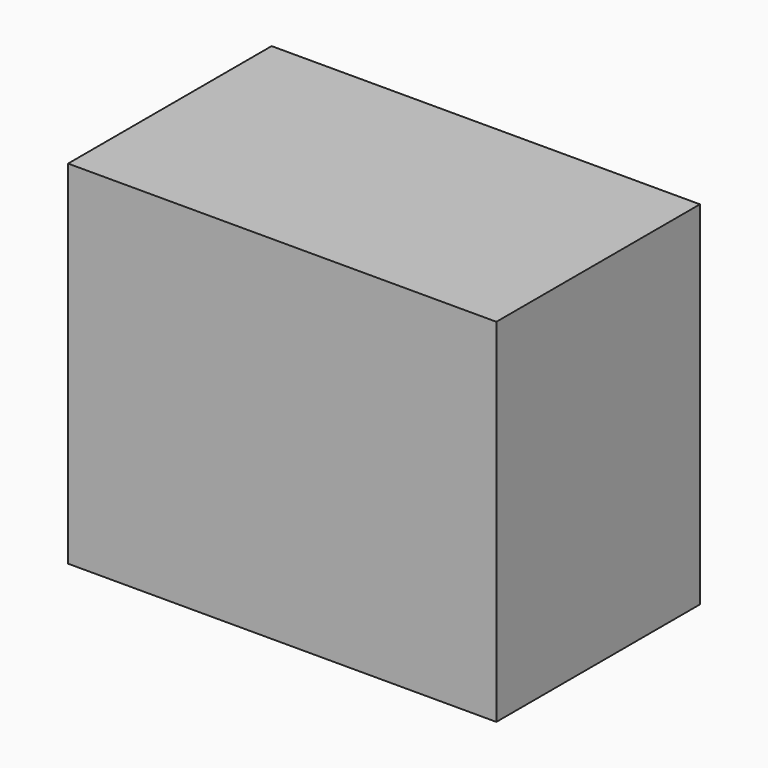
from build123d import *

# Parameters (mm, degrees)
F0_W     = 229.4497787952
F0_H     = 136.2964212894
F1_DEPTH = 25.4
F2_DEPTH = 102.8037015349
F3_DEPTH = 109.354019165
F4_DEPTH = 188.7048464268


with BuildPart() as f1:
    # F0 (on Top) → F1 (new body)
    with BuildSketch(Plane.XY):
        with Locations((-76.5966773033, 77.7228921652)):
            Rectangle(F0_W, F0_H)
    extrude(amount=F1_DEPTH)

    # F2 (add): a face of the model
    f2_faces = [f1.faces().sort_by_distance(p)[0] for p in [
        (-76.5966773033, 77.7228921652, 25.4),
    ]]
    extrude(f2_faces, amount=F2_DEPTH)

    # F3 (add): a face of the model
    f3_faces = [f1.faces().sort_by_distance(p)[0] for p in [
        (-76.5966773033, 77.7228921652, 128.2037015349),
    ]]
    extrude(f3_faces, amount=-F3_DEPTH)

    # F4 (add): a face of the model
    f4_faces = [f1.faces().sort_by_distance(p)[0] for p in [
        (-76.5966773033, 77.7228921652, 128.2037015349),
    ]]
    extrude(f4_faces, amount=-F4_DEPTH)


solid = f1.part
